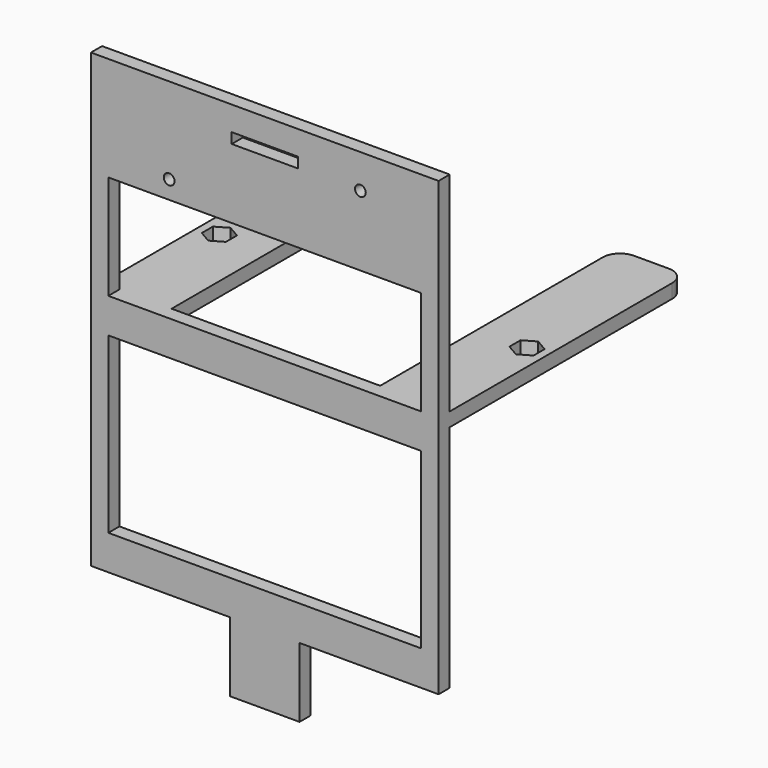
from build123d import *

# Parameters (mm, degrees)
F0_W     = 90
F0_H     = 50
F0_H_2   = 30
F0_R     = 1.55
F0_W_2   = 19
F0_H_3   = 3
F1_DEPTH = 4
F3_DEPTH = 4
F4_W     = 0.5
F4_H     = 20
F5_DEPTH = 0.5


with BuildPart() as f1:
    # F0 (on Front) → F1 (new body)
    with BuildSketch(Plane.XZ):
        Polygon((50.859297, 66.157015), (-49.140703, 66.157015), (-49.140703, -63.842985), (-9.140703, -63.842985), (-9.140703, -83.842985), (10.859297, -83.842985), (10.859297, -63.842985), (50.859297, -63.842985), align=None)
        with Locations((0.859297, -28.842985)):
            Rectangle(F0_W, F0_H, mode=Mode.SUBTRACT)
        with Locations((0.859297, 21.157015)):
            Rectangle(F0_W, F0_H_2, mode=Mode.SUBTRACT)
        with Locations((-26.640703, 41.357015)):
            Circle(F0_R, mode=Mode.SUBTRACT)
        with Locations((0.859297, 57.657015)):
            Rectangle(F0_W_2, F0_H_3, mode=Mode.SUBTRACT)
        with Locations((28.359297, 56.357015)):
            Circle(F0_R, mode=Mode.SUBTRACT)
    extrude(amount=F1_DEPTH)

    # F2 (on face) → F3 (join)
    with BuildSketch(Plane.XY.offset(6.157015)):
        with BuildLine():
            Line((-49.140703, 80), (-49.140703, 0))
            Line((-49.140703, 0), (-29.140703, 0))
            Line((-29.140703, 0), (-29.140703, 80))
            ThreePointArc((-29.140703, 80), (-30.605169, 83.535534), (-34.140703, 85))
            Line((-34.140703, 85), (-44.140703, 85))
            ThreePointArc((-44.140703, 85), (-47.676237, 83.535534), (-49.140703, 80))
        make_face()
        Polygon((-46.854805, 37), (-43.390703, 39), (-39.926602, 37), (-39.926602, 33), (-43.390703, 31), (-46.854805, 33), align=None, mode=Mode.SUBTRACT)
        with BuildLine():
            Line((30.859297, 80), (30.859297, 0))
            Line((30.859297, 0), (50.859297, 0))
            Line((50.859297, 0), (50.859297, 80))
            ThreePointArc((50.859297, 80), (49.394831, 83.535534), (45.859297, 85))
            Line((45.859297, 85), (35.859297, 85))
            ThreePointArc((35.859297, 85), (32.323763, 83.535534), (30.859297, 80))
        make_face()
        Polygon((45.109297, 39), (48.573398, 37), (48.573398, 33), (45.109297, 31), (41.645195, 33), (41.645195, 37), align=None, mode=Mode.SUBTRACT)
    extrude(amount=-F3_DEPTH)

    # F4 (on face) → F5 (cut)
    with BuildSketch(Plane(origin=(0, 0, 0), x_dir=(-1, 0, 0), z_dir=(0, 1, 0))):
        with Locations((-0.859297, -73.842985)):
            Rectangle(F4_W, F4_H)
    extrude(amount=-F5_DEPTH, mode=Mode.SUBTRACT)


solid = f1.part
